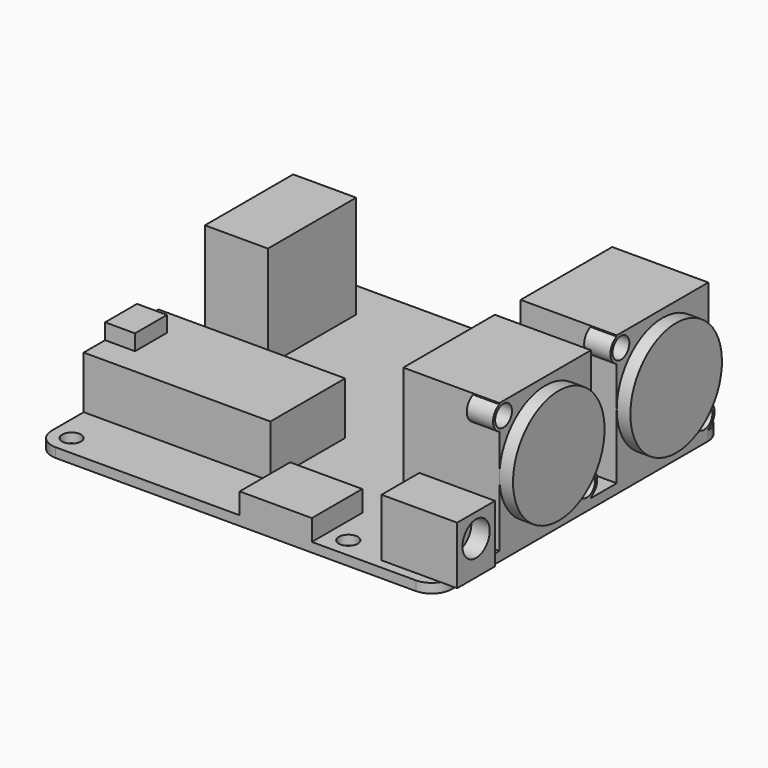
from build123d import *

# Parameters (mm, degrees)
CYLINDER004_R     = 7
CYLINDER004_DEPTH = 1
BOX003_W          = 12
BOX003_H          = 21
BOX003_DEPTH      = 19.6
BOX002_W          = 5.7
BOX002_H          = 7.6
BOX002_DEPTH      = 3
BOX001_W          = 35.56
BOX001_H          = 17.78
BOX001_DEPTH      = 10
BOX004_W          = 13.749
BOX004_H          = 12
BOX004_DEPTH      = 4
BOX005_W          = 11.3259
BOX005_H          = 12
BOX005_DEPTH      = 4
CYLINDER005_R     = 3.25
CYLINDER005_DEPTH = 3.5
BOX006_W          = 14.4
BOX006_H          = 9
BOX006_DEPTH      = 11
CYLINDER007_R     = 2
CYLINDER007_DEPTH = 5
CYLINDER006_R     = 2
CYLINDER006_DEPTH = 5
CYLINDER009_R     = 2.5
CYLINDER009_DEPTH = 5
CYLINDER008_R     = 10.9
CYLINDER008_DEPTH = 2.6
BOX007_W          = 18.3
BOX007_H          = 21.8
BOX007_DEPTH      = 24.8
CYLINDER010_R     = 2.5
CYLINDER010_DEPTH = 5
CYLINDER001_R     = 1.8
CYLINDER001_DEPTH = 1.8
CYLINDER002_R     = 1.8
CYLINDER002_DEPTH = 1.8
CYLINDER003_R     = 1.8
CYLINDER003_DEPTH = 1.8
CYLINDER_R        = 1.8
CYLINDER_DEPTH    = 1.8
BOX_W             = 76.2
BOX_H             = 68.58
BOX_DEPTH         = 1.8
FILLET_R          = 3.81
CYLINDER015_R     = 2
CYLINDER015_DEPTH = 5
CYLINDER011_R     = 2
CYLINDER011_DEPTH = 5
CYLINDER012_R     = 2.5
CYLINDER012_DEPTH = 5
CYLINDER014_R     = 10.9
CYLINDER014_DEPTH = 2.6
BOX008_W          = 18.3
BOX008_H          = 21.8
BOX008_DEPTH      = 24.8
CYLINDER013_R     = 2.5
CYLINDER013_DEPTH = 5


with BuildPart() as cylinder004:
    # Cylinder004 → Cylinder004 (new body)
    with BuildSketch(Plane(origin=(0, 50.8, 11.4), x_dir=(0, 0, -1), z_dir=(1, 0, 0))):
        Circle(CYLINDER004_R)
    extrude(amount=CYLINDER004_DEPTH)


with BuildPart() as midi:
    # Box003 → Box003 (new body)
    with BuildSketch(Plane(origin=(0, 40.3, 1.8), x_dir=(1, 0, 0), z_dir=(0, 0, 1))):
        with Locations((6, 10.5)):
            Rectangle(BOX003_W, BOX003_H)
    extrude(amount=BOX003_DEPTH)

    # Cut001: cut Cylinder004
    add(cylinder004.part, mode=Mode.SUBTRACT)


with BuildPart() as cube002:
    # Box002 → Box002 (new body)
    with BuildSketch(Plane(origin=(0, 16.53, 11.8), x_dir=(1, 0, 0), z_dir=(0, 0, 1))):
        with Locations((2.85, 3.8)):
            Rectangle(BOX002_W, BOX002_H)
    extrude(amount=BOX002_DEPTH)


with BuildPart() as obj1:
    # Box001 → Box001 (new body)
    with BuildSketch(Plane(origin=(0, 11.44, 1.8), x_dir=(1, 0, 0), z_dir=(0, 0, 1))):
        with Locations((17.78, 8.89)):
            Rectangle(BOX001_W, BOX001_H)
    extrude(amount=BOX001_DEPTH)

    # Fusion001: union Cube002
    add(cube002.part)


with BuildPart() as obj2:
    # Box004 → Box004 (new body)
    with BuildSketch(Plane(origin=(38.8544, 0, 1.8), x_dir=(1, 0, 0), z_dir=(0, 0, 1))):
        with Locations((6.8745, 6)):
            Rectangle(BOX004_W, BOX004_H)
    extrude(amount=BOX004_DEPTH)


with BuildPart() as obj3:
    # Box005 → Box005 (new body)
    with BuildSketch(Plane(origin=(40.005, 56.58, 1.8), x_dir=(1, 0, 0), z_dir=(0, 0, 1))):
        with Locations((5.66295, 6)):
            Rectangle(BOX005_W, BOX005_H)
    extrude(amount=BOX005_DEPTH)


with BuildPart() as cylinder005:
    # Cylinder005 → Cylinder005 (new body)
    with BuildSketch(Plane(origin=(10.9, 4.5, 8.3), x_dir=(0, 0, -1), z_dir=(1, 0, 0))):
        Circle(CYLINDER005_R)
    extrude(amount=CYLINDER005_DEPTH)


with BuildPart() as dc_jack:
    # Box006 → Box006 (new body)
    with BuildSketch(Plane.XY.offset(1.8)):
        with Locations((7.2, 4.5)):
            Rectangle(BOX006_W, BOX006_H)
    extrude(amount=BOX006_DEPTH)

    # Cut002: cut Cylinder005
    add(cylinder005.part, mode=Mode.SUBTRACT)


with BuildPart() as dc_jack_1:
    # Cut002 placement: moved
    add(dc_jack.part.moved(Location((64.4, 1.85, 0))))


with BuildPart() as cylinder007:
    # Cylinder007 → Cylinder007 (new body)
    with BuildSketch(Plane(origin=(13.3, 20.8, 2.5), x_dir=(0, 0, -1), z_dir=(1, 0, 0))):
        Circle(CYLINDER007_R)
    extrude(amount=CYLINDER007_DEPTH)


with BuildPart() as fusion003:
    # Cylinder006 → Cylinder006 (new body)
    with BuildSketch(Plane(origin=(13.3, 1, 22.3), x_dir=(0, 0, -1), z_dir=(1, 0, 0))):
        Circle(CYLINDER006_R)
    extrude(amount=CYLINDER006_DEPTH)

    # Fusion003: union Cylinder007
    add(cylinder007.part)


with BuildPart() as cylinder009:
    # Cylinder009 → Cylinder009 (new body)
    with BuildSketch(Plane(origin=(13.3, 1, 22.3), x_dir=(0, 0, -1), z_dir=(1, 0, 0))):
        Circle(CYLINDER009_R)
    extrude(amount=CYLINDER009_DEPTH)


with BuildPart() as cylinder008:
    # Cylinder008 → Cylinder008 (new body)
    with BuildSketch(Plane(origin=(18.3, 10.9, 12.4), x_dir=(0, 0, -1), z_dir=(1, 0, 0))):
        Circle(CYLINDER008_R)
    extrude(amount=CYLINDER008_DEPTH)


with BuildPart() as cube005:
    # Box007 → Box007 (new body)
    with BuildSketch(Plane.XY):
        with Locations((9.15, 10.9)):
            Rectangle(BOX007_W, BOX007_H)
    extrude(amount=BOX007_DEPTH)


with BuildPart() as obj4:
    # Cylinder010 → Cylinder010 (new body)
    with BuildSketch(Plane(origin=(13.3, 20.8, 2.5), x_dir=(0, 0, -1), z_dir=(1, 0, 0))):
        Circle(CYLINDER010_R)
    extrude(amount=CYLINDER010_DEPTH)

    # Fusion002: union Cylinder009, Cylinder008, Cube005
    add(cylinder009.part)
    add(cylinder008.part)
    add(cube005.part)

    # Cut003: cut Fusion003
    add(fusion003.part, mode=Mode.SUBTRACT)


with BuildPart() as obj4_1:
    # Cut003 placement: moved
    add(obj4.part.moved(Location((57.9, 15.14, 1.8))))


with BuildPart() as cylinder001:
    # Cylinder001 → Cylinder001 (new body)
    with BuildSketch(Plane(origin=(3.81, 64.77, 0), x_dir=(1, 0, 0), z_dir=(0, 0, 1))):
        Circle(CYLINDER001_R)
    extrude(amount=CYLINDER001_DEPTH)


with BuildPart() as cylinder002:
    # Cylinder002 → Cylinder002 (new body)
    with BuildSketch(Plane(origin=(56.5, 3.81, 0), x_dir=(1, 0, 0), z_dir=(0, 0, 1))):
        Circle(CYLINDER002_R)
    extrude(amount=CYLINDER002_DEPTH)


with BuildPart() as cylinder003:
    # Cylinder003 → Cylinder003 (new body)
    with BuildSketch(Plane(origin=(55.23, 64.77, 0), x_dir=(1, 0, 0), z_dir=(0, 0, 1))):
        Circle(CYLINDER003_R)
    extrude(amount=CYLINDER003_DEPTH)


with BuildPart() as fusion:
    # Cylinder → Cylinder (new body)
    with BuildSketch(Plane(origin=(3.81, 3.81, 0), x_dir=(1, 0, 0), z_dir=(0, 0, 1))):
        Circle(CYLINDER_R)
    extrude(amount=CYLINDER_DEPTH)

    # Fusion: union Cylinder001, Cylinder002, Cylinder003
    add(cylinder001.part)
    add(cylinder002.part)
    add(cylinder003.part)


with BuildPart() as pcb:
    # Box → Box (new body)
    with BuildSketch(Plane.XY):
        with Locations((38.1, 34.29)):
            Rectangle(BOX_W, BOX_H)
    extrude(amount=BOX_DEPTH)

    # Fillet
    fillet_edges = [pcb.edges().sort_by_distance(p)[0] for p in [
        (0, 0, 0.9),
        (0, 68.58, 0.9),
        (76.2, 0, 0.9),
        (76.2, 68.58, 0.9),
    ]]
    fillet(fillet_edges, radius=FILLET_R)

    # Cut: cut Fusion
    add(fusion.part, mode=Mode.SUBTRACT)


with BuildPart() as cylinder015:
    # Cylinder015 → Cylinder015 (new body)
    with BuildSketch(Plane(origin=(13.3, 20.8, 2.5), x_dir=(0, 0, -1), z_dir=(1, 0, 0))):
        Circle(CYLINDER015_R)
    extrude(amount=CYLINDER015_DEPTH)


with BuildPart() as fusion004:
    # Cylinder011 → Cylinder011 (new body)
    with BuildSketch(Plane(origin=(13.3, 1, 22.3), x_dir=(0, 0, -1), z_dir=(1, 0, 0))):
        Circle(CYLINDER011_R)
    extrude(amount=CYLINDER011_DEPTH)

    # Fusion004: union Cylinder015
    add(cylinder015.part)


with BuildPart() as cylinder012:
    # Cylinder012 → Cylinder012 (new body)
    with BuildSketch(Plane(origin=(13.3, 1, 22.3), x_dir=(0, 0, -1), z_dir=(1, 0, 0))):
        Circle(CYLINDER012_R)
    extrude(amount=CYLINDER012_DEPTH)


with BuildPart() as cylinder014:
    # Cylinder014 → Cylinder014 (new body)
    with BuildSketch(Plane(origin=(18.3, 10.9, 12.4), x_dir=(0, 0, -1), z_dir=(1, 0, 0))):
        Circle(CYLINDER014_R)
    extrude(amount=CYLINDER014_DEPTH)


with BuildPart() as cube006:
    # Box008 → Box008 (new body)
    with BuildSketch(Plane.XY):
        with Locations((9.15, 10.9)):
            Rectangle(BOX008_W, BOX008_H)
    extrude(amount=BOX008_DEPTH)


with BuildPart() as device:
    # Cylinder013 → Cylinder013 (new body)
    with BuildSketch(Plane(origin=(13.3, 20.8, 2.5), x_dir=(0, 0, -1), z_dir=(1, 0, 0))):
        Circle(CYLINDER013_R)
    extrude(amount=CYLINDER013_DEPTH)

    # Fusion005: union Cylinder012, Cylinder014, Cube006
    add(cylinder012.part)
    add(cylinder014.part)
    add(cube006.part)

    # Cut004: cut Fusion004
    add(fusion004.part, mode=Mode.SUBTRACT)


with BuildPart() as device_1:
    # Cut004 placement: moved
    add(device.part.moved(Location((57.9, 43.08, 1.8))))

    # Fusion006: union Midi, obj1, obj2, obj3, DC Jack, obj4, PCB
    add(midi.part)
    add(obj1.part)
    add(obj2.part)
    add(obj3.part)
    add(dc_jack_1.part)
    add(obj4_1.part)
    add(pcb.part)


solid = device_1.part
